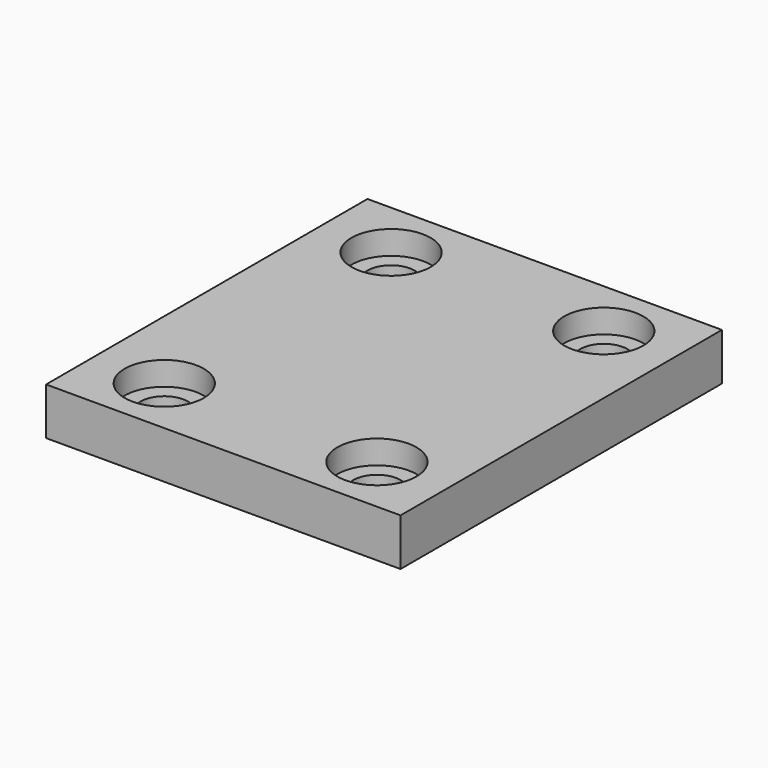
from build123d import *

# Parameters (mm, degrees)
F0_W     = 30
F0_H     = 34
F0_R     = 3.35
F1_DEPTH = 4
F0_R_2   = 2
F2_DEPTH = 2


with BuildPart() as f1:
    # F0 (on Top) → F1 (new body)
    with BuildSketch(Plane.XY):
        with Locations((1.999535, 3.282795)):
            Rectangle(F0_W, F0_H)
        with Locations((-7.000465, -8.717205)):
            Circle(F0_R, mode=Mode.SUBTRACT)
        with Locations((10.999535, -8.717205)):
            Circle(F0_R, mode=Mode.SUBTRACT)
        with Locations((-7.000465, 15.282795)):
            Circle(F0_R, mode=Mode.SUBTRACT)
        with Locations((10.999535, 15.282795)):
            Circle(F0_R, mode=Mode.SUBTRACT)
    extrude(amount=F1_DEPTH)

    # F0 (on Top) → F2 (join)
    with BuildSketch(Plane.XY):
        with Locations((-7.000465, 15.282795)):
            Circle(F0_R)
        with Locations((-7.000465, 15.282795)):
            Circle(F0_R_2, mode=Mode.SUBTRACT)
        with Locations((10.999535, 15.282795)):
            Circle(F0_R)
        with Locations((10.999535, 15.282795)):
            Circle(F0_R_2, mode=Mode.SUBTRACT)
        with Locations((10.999535, -8.717205)):
            Circle(F0_R)
        with Locations((10.999535, -8.717205)):
            Circle(F0_R_2, mode=Mode.SUBTRACT)
        with Locations((-7.000465, -8.717205)):
            Circle(F0_R)
        with Locations((-7.000465, -8.717205)):
            Circle(F0_R_2, mode=Mode.SUBTRACT)
    extrude(amount=F2_DEPTH)


solid = f1.part
